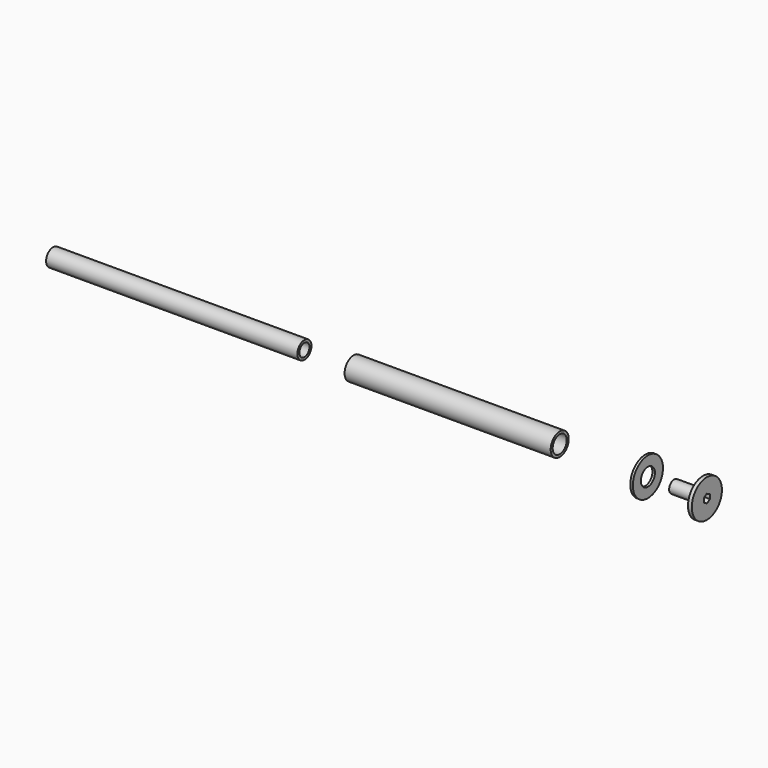
from build123d import *

# Parameters (mm, degrees)
F2_R      = 7
F2_R_2    = 5
F3_DEPTH  = 200
F9_DEPTH  = 200
F7_R      = 9
F7_R_2    = 7
F10_DEPTH = 164
F8_R      = 5
F8_R_2    = 3.5
F11_DEPTH = 26
F8_R_3    = 15
F12_DEPTH = 3
F13_DEPTH = 9
F14_DEPTH = 5
F15_R     = 15
F15_R_2   = 7
F16_DEPTH = 2


with BuildPart() as f3:
    # F2 (on plane+point) → F3 (new body, through all)
    with BuildSketch(Plane.YZ.offset(-106.8006694317)):
        Circle(F2_R)
        Circle(F2_R_2, mode=Mode.SUBTRACT)
    extrude(amount=-F3_DEPTH)


with BuildPart() as f9:
    # F2 (on plane+point) → F9 (new body, through all)
    with BuildSketch(Plane.YZ.offset(-106.8006694317)):
        Circle(F2_R)
        Circle(F2_R_2, mode=Mode.SUBTRACT)
    extrude(amount=-F9_DEPTH)


with BuildPart() as f10:
    # F7 (on plane+point) → F10 (new body, through all)
    with BuildSketch(Plane.YZ.offset(96.3545098305)):
        Circle(F7_R)
        Circle(F7_R_2, mode=Mode.SUBTRACT)
    extrude(amount=-F10_DEPTH)


with BuildPart() as f11:
    # F8 (on plane+point) → F11 (new body)
    with BuildSketch(Plane.YZ.offset(213.4446501732)):
        Circle(F8_R)
        Circle(F8_R_2, mode=Mode.SUBTRACT)
    extrude(amount=-F11_DEPTH)

    # F8 (on plane+point) → F12 (join)
    with BuildSketch(Plane.YZ.offset(213.4446501732)):
        Circle(F8_R_3)
        Circle(F8_R, mode=Mode.SUBTRACT)
    extrude(amount=-F12_DEPTH)

    # F8 (on plane+point) → F13 (join)
    with BuildSketch(Plane.YZ.offset(213.4446501732)):
        Circle(F8_R_2)
        Polygon((2.9198812688, 1.8639456473), (3.0741649162, -1.5967185312), (0.1542836474, -3.4606641785), (-2.9198812688, -1.8639456473), (-3.0741649162, 1.5967185312), (-0.1542836474, 3.4606641785), align=None, mode=Mode.SUBTRACT)
        Polygon((0.1542836474, -3.4606641785), (3.0741649162, -1.5967185312), (2.9198812688, 1.8639456473), (-0.1542836474, 3.4606641785), (-3.0741649162, 1.5967185312), (-2.9198812688, -1.8639456473), align=None)
    extrude(amount=-F13_DEPTH)

    # F8 (on plane+point) → F14 (cut)
    with BuildSketch(Plane.YZ.offset(213.4446501732)):
        Polygon((0.1542836474, -3.4606641785), (3.0741649162, -1.5967185312), (2.9198812688, 1.8639456473), (-0.1542836474, 3.4606641785), (-3.0741649162, 1.5967185312), (-2.9198812688, -1.8639456473), align=None)
    extrude(amount=-F14_DEPTH, mode=Mode.SUBTRACT)


with BuildPart() as f16:
    # F15 (on plane+point) → F16 (new body)
    with BuildSketch(Plane.YZ.offset(164.5385622978)):
        Circle(F15_R)
        Circle(F15_R_2, mode=Mode.SUBTRACT)
    extrude(amount=F16_DEPTH)


solid = Compound([f3.part, f9.part, f10.part, f11.part, f16.part])
